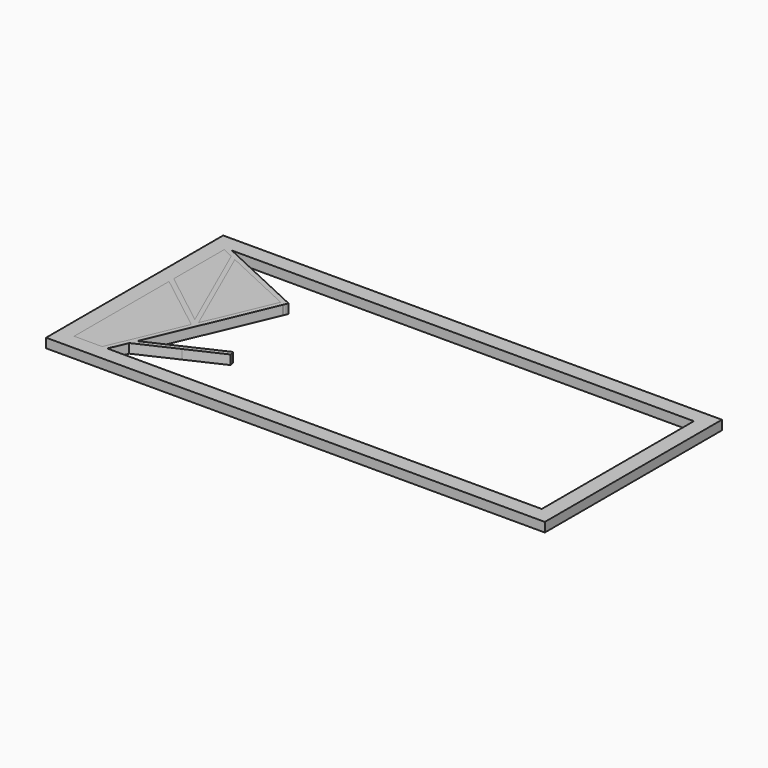
from build123d import *

# Parameters (mm, degrees)
F0_W     = 5
F0_H     = 5
F1_DEPTH = 3
F3_DEPTH = 3


with BuildPart() as f1:
    # F0 (on Top) → F1 (new body)
    with BuildSketch(Plane.XY):
        Polygon((-45.4040056488, 21.9877450019), (-47.1794794431, 21.9877450019), (-23.5897397215, 10.993872501), (-23.2729228799, 11.6736718014), align=None)
        Polygon((-23.5897397215, 10.993872501), (-47.1794794431, 21.9877450019), (-47.1794794431, 21.1602949006), (-43.5824141612, 19.4839017927), (-42.7601054315, 19.1006691908), (-41.7257321146, 18.618605018), (-23.9065565632, 10.3140732006), align=None)
        Polygon((-41.7257321146, 18.618605018), (-42.7601054315, 19.1006691908), (-35.0499012319, 1.8158922844), (-34.345795602, 2.0742239744), align=None)
        Polygon((-42.7601054315, 19.1006691908), (-43.5824141612, 19.4839017927), (-35.7348462755, 1.5103594921), (-35.0499012319, 1.8158922844), align=None)
        Polygon((-23.2729228799, 11.6736718014), (-23.5897397215, 10.993872501), (-18.0053610902, 8.3913025958), (-17.7116326841, 9.0818621386), align=None)
        Polygon((-18.0053610902, 8.3913025958), (-23.5897397215, 10.993872501), (-23.9065565632, 10.3140732006), (-18.2990894963, 7.700743053), align=None)
        Polygon((-17.7116326841, 9.0818621386), (-18.0053610902, 8.3913025958), (-17.3255617898, 8.0744857541), (-16.6453705191, 7.7574862368), (-16.351642113, 8.4480457795), align=None)
        Polygon((-17.3255617898, 8.0744857541), (-18.0053610902, 8.3913025958), (-18.2990894963, 7.700743053), (-17.6192901959, 7.3839262113), align=None)
        Polygon((-16.6453705191, 7.7574862368), (-17.3255617898, 8.0744857541), (-17.1143889358, 7.1486196694), (-16.9390989252, 7.066926694), align=None)
        Polygon((-17.1143889358, 7.1486196694), (-17.3255617898, 8.0744857541), (-17.6192901959, 7.3839262113), align=None)
        Polygon((-17.0410746172, 6.8271804325), (-17.1143889358, 7.1486196694), (-17.6192901959, 7.3839262113), (-22.3714190216, -3.7883943447), (-21.681257424, -4.0819534855), align=None)
        Polygon((-17.6192901959, 7.3839262113), (-18.2990894963, 7.700743053), (-23.051218322, -3.471577503), (-22.3714190216, -3.7883943447), align=None)
        Polygon((-16.9390989252, 7.066926694), (-17.1143889358, 7.1486196694), (-17.0410746172, 6.8271804325), align=None)
        Polygon((-27.3396970322, -15.468884622), (-37.3538322747, -39.0122549981), (-36.5388057622, -39.0122549981), (-34.0993712739, -33.2771107969), (-33.6611290686, -32.2467973145), (-33.2228868633, -31.2164838322), (-21.681257424, -4.0819534855), (-22.3714190216, -3.7883943447), (-27.0359227228, -14.7547070217), align=None)
        Polygon((-22.3714190216, -3.7883943447), (-23.051218322, -3.471577503), (-27.4510842105, -13.8157230242), (-27.6476172037, -14.2777748078), (-27.0359227228, -14.7547070217), align=None)
        Polygon((-34.345795602, 2.0742239744), (-35.0499012319, 1.8158922844), (-27.9901434053, -14.010710473), (-27.6476172037, -14.2777748078), (-27.4510842105, -13.8157230242), align=None)
        Polygon((-35.0499012319, 1.8158922844), (-35.7348462755, 1.5103594921), (-29.2493098322, -13.0289507049), (-27.9901434053, -14.010710473), align=None)
        Polygon((-36.7984283085, -7.1429767416), (-47.1794794431, 0.9510274632), (-47.1794794431, 0), (-37.2595882377, -7.734442311), align=None)
        Polygon((-47.1794794431, 0), (-47.1794794431, -0.9510274632), (-37.7207481668, -8.3259078804), (-37.2595882377, -7.734442311), align=None)
        Polygon((-29.2493098322, -13.0289507049), (-36.7984283085, -7.1429767416), (-37.2595882377, -7.734442311), (-27.9513915131, -14.9919524081), (-27.7566597577, -14.5341353596), (-27.9901434053, -14.010710473), align=None)
        Polygon((-37.2595882377, -7.734442311), (-37.7207481668, -8.3259078804), (-28.2551658225, -15.7061300084), (-27.9513915131, -14.9919524081), align=None)
        Polygon((-33.6611290686, -32.2467973145), (-34.0993712739, -33.2771107969), (-21.8015368152, -27.568214313), (-22.1173333259, -26.8879404242), align=None)
        Polygon((-33.2228868633, -31.2164838322), (-33.6611290686, -32.2467973145), (-22.1173333259, -26.8879404242), (-22.4331298367, -26.2076665354), align=None)
        Polygon((-10.5735375832, -21.5290835338), (-10.7440753935, -20.781377701), (-22.4331298367, -26.2076665354), (-22.1173333259, -26.8879404242), align=None)
        Polygon((-22.1173333259, -26.8879404242), (-21.8015368152, -27.568214313), (-10.402999773, -22.2767893666), (-10.5735375832, -21.5290835338), align=None)
        Polygon((-27.7566597577, -14.5341353596), (-27.3396970322, -15.468884622), (-27.0359227228, -14.7547070217), (-27.6476172037, -14.2777748078), align=None)
        Polygon((-27.9513915131, -14.9919524081), (-27.3396970322, -15.468884622), (-27.7566597577, -14.5341353596), align=None)
        Polygon((-28.2551658225, -15.7061300084), (-38.1683891161, -39.0122549981), (-37.3538322747, -39.0122549981), (-27.3396970322, -15.468884622), (-27.9513915131, -14.9919524081), align=None)
        Polygon((-27.9901434053, -14.010710473), (-27.7566597577, -14.5341353596), (-27.6476172037, -14.2777748078), align=None)
        Polygon((-38.1683891161, -39.0122549981), (-47.1794794431, -39.0122549981), (-47.1794794431, -44.0122549981), (27.8205205569, -44.0122549981), (102.8205205569, -44.0122549981), (102.8205205569, -39.0122549981), (96.8116257564, -39.0122549981), (64.2124563456, -39.0122549981), (42.8673438728, -39.0122549981), (-8.5564870387, -39.0122549981), (-36.5388057622, -39.0122549981), (-37.3538322747, -39.0122549981), align=None)
        with Locations((-49.6794794431, 24.4877450019)):
            Rectangle(F0_W, F0_H)
        Polygon((-47.1794794431, 21.9877450019), (-52.1794794431, 21.9877450019), (-52.1794794431, -39.0122549981), (-47.1794794431, -39.0122549981), (-47.1794794431, -0.9510274632), (-47.1794794431, 0), (-47.1794794431, 0.9510274632), (-47.1794794431, 21.1602949006), align=None)
        with Locations((-49.6794794431, -41.5122549981)):
            Rectangle(F0_W, F0_H)
        with Locations((-49.6794794431, -41.5122549981)):
            Rectangle(F0_W, F0_H)
        Polygon((102.8205205569, 26.9877450019), (-47.1794794431, 26.9877450019), (-47.1794794431, 21.9877450019), (-45.4040056488, 21.9877450019), (-2.1254387614, 21.9877450019), (0, 21.9877450019), (11.2784197554, 21.9877450019), (31.8888692592, 21.9877450019), (63.347607851, 21.9877450019), (95.1727256179, 21.9877450019), (102.8205205569, 21.9877450019), align=None)
        with Locations((105.3205205569, 24.4877450019)):
            Rectangle(F0_W, F0_H)
        Polygon((107.8205205569, -39.0122549981), (107.8205205569, 21.9877450019), (102.8205205569, 21.9877450019), (102.8205205569, -20.5286494456), (102.8205205569, -28.1625539064), (102.8205205569, -39.0122549981), align=None)
        with Locations((105.3205205569, -41.5122549981)):
            Rectangle(F0_W, F0_H)
        with Locations((105.3205205569, -41.5122549981)):
            Rectangle(F0_W, F0_H)
        with Locations((105.3205205569, 24.4877450019)):
            Rectangle(F0_W, F0_H)
        with Locations((-49.6794794431, 24.4877450019)):
            Rectangle(F0_W, F0_H)
    extrude(amount=F1_DEPTH)


with BuildPart() as f3:
    # F2 (on face) → F3 (new body)
    with BuildSketch(Plane.XY.offset(3)):
        Polygon((-18.2990894963, 7.700743053), (-41.7257321146, 18.618605018), (-27.4510842105, -13.8157230242), align=None)
    extrude(amount=-F3_DEPTH)


with BuildPart() as f3b:
    # F2 (on face) → F3, piece 2 (new body)
    with BuildSketch(Plane.XY.offset(3)):
        Polygon((-29.2493098322, -13.0289507049), (-43.5824141612, 19.4839017927), (-47.1794794431, 21.1602949006), (-47.1794794431, 0.9510274632), align=None)
    extrude(amount=-F3_DEPTH)


with BuildPart() as f3c:
    # F2 (on face) → F3, piece 3 (new body)
    with BuildSketch(Plane.XY.offset(3)):
        Polygon((-38.1683891161, -39.0122549981), (-28.2551658225, -15.7061300084), (-47.1794794431, -0.9510274632), (-47.1794794431, -39.0122549981), align=None)
    extrude(amount=-F3_DEPTH)


solid = Compound([f1.part, f3.part, f3b.part, f3c.part])
